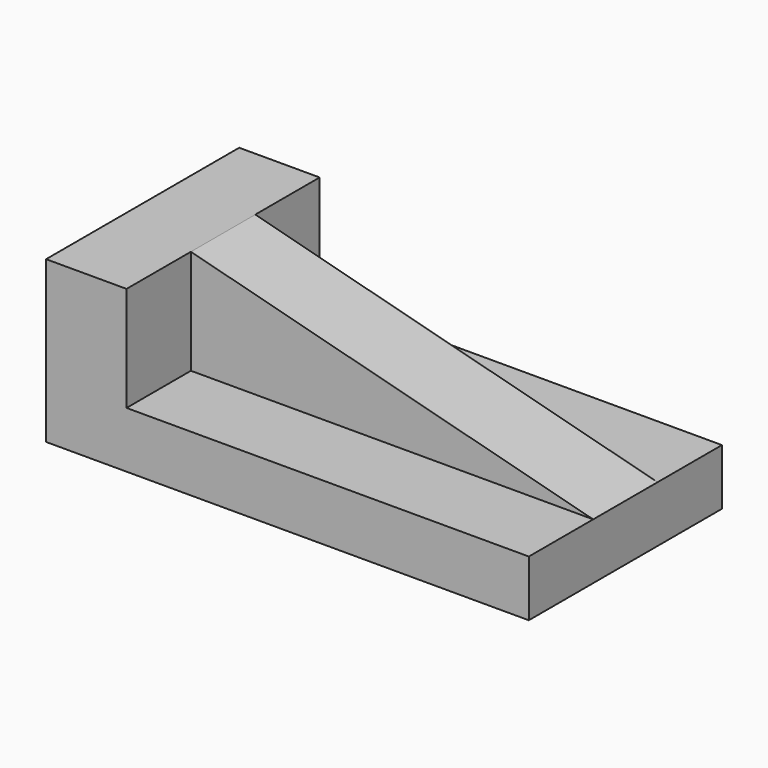
from build123d import *

# Parameters (mm, degrees)
F1_DEPTH = 76.2
F3_DEPTH = 25.4
F5_DEPTH = 25.4


with BuildPart() as f1:
    # F0 (on Front) → F1 (new body)
    with BuildSketch(Plane.XZ):
        Polygon((0, 50.8), (0, 0), (152.4, 0), (152.4, 17.720935), (25.4, 50.8), align=None)
    extrude(amount=-F1_DEPTH)

    # F2 (on face) → F3 (cut)
    with BuildSketch(Plane.XZ):
        Polygon((25.4, 17.720935), (152.4, 17.720935), (25.4, 50.8), align=None)
    extrude(amount=-F3_DEPTH, mode=Mode.SUBTRACT)

    # F4 (on face) → F5 (cut)
    with BuildSketch(Plane(origin=(0, 76.2, 0), x_dir=(-1, 0, 0), z_dir=(0, 1, 0))):
        Polygon((-25.4, 50.8), (-152.4, 17.720935), (-25.4, 17.720935), align=None)
    extrude(amount=-F5_DEPTH, mode=Mode.SUBTRACT)


solid = f1.part
